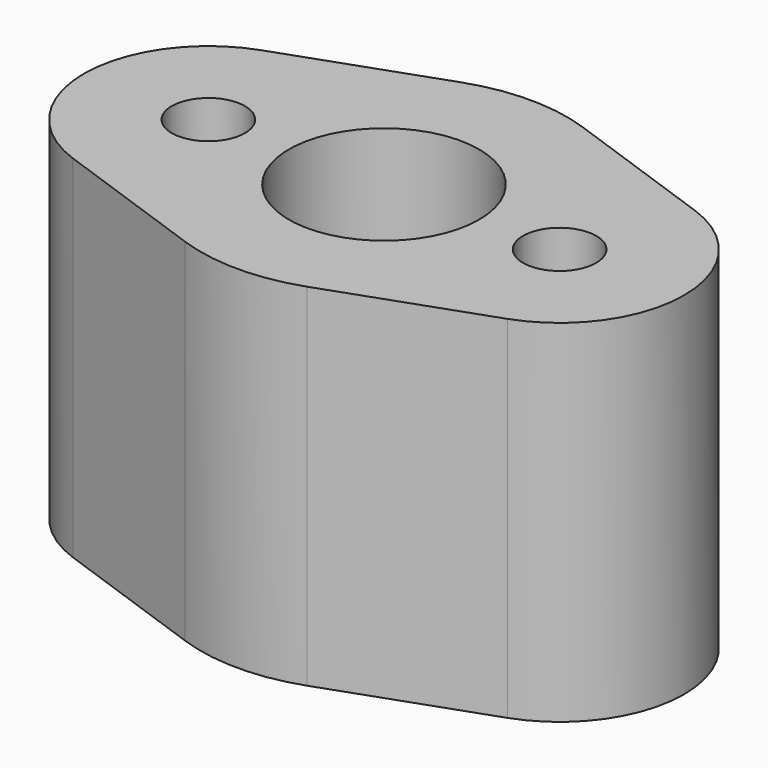
from build123d import *

# Parameters (mm, degrees)
F0_R     = 1.25
F0_R_2   = 3.25
F1_DEPTH = 12
F3_DEPTH = 2


with BuildPart() as f1:
    # F0 (on Top) → F1 (new body)
    with BuildSketch(Plane.XY):
        with BuildLine():
            ThreePointArc((7.416667, -4.006938), (10.25, 0), (7.416667, 4.006938))
            Line((7.416667, 4.006938), (2.083333, 5.892557))
            ThreePointArc((2.083333, 5.892557), (0, 6.25), (-2.083333, 5.892557))
            Line((-2.083333, 5.892557), (-7.416667, 4.006938))
            ThreePointArc((-7.416667, 4.006938), (-10.25, 0), (-7.416667, -4.006938))
            Line((-7.416667, -4.006938), (-2.083333, -5.892557))
            ThreePointArc((-2.083333, -5.892557), (0, -6.25), (2.083333, -5.892557))
            Line((2.083333, -5.892557), (7.416667, -4.006938))
        make_face()
        with Locations((-6, 0)):
            Circle(F0_R, mode=Mode.SUBTRACT)
        Circle(F0_R_2, mode=Mode.SUBTRACT)
        with Locations((6, 0)):
            Circle(F0_R, mode=Mode.SUBTRACT)
    extrude(amount=F1_DEPTH)

    # F2 (on face) → F3 (join)
    with BuildSketch(Plane(origin=(0, 0, 0), x_dir=(1, 0, 0), z_dir=(0, 0, -1))):
        with BuildLine():
            Line((-1.179652, -3.028353), (-1.179652, 3.028353))
            ThreePointArc((-1.179652, 3.028353), (-3.25, 0), (-1.179652, -3.028353))
        make_face()
    extrude(amount=-F3_DEPTH)


solid = f1.part
